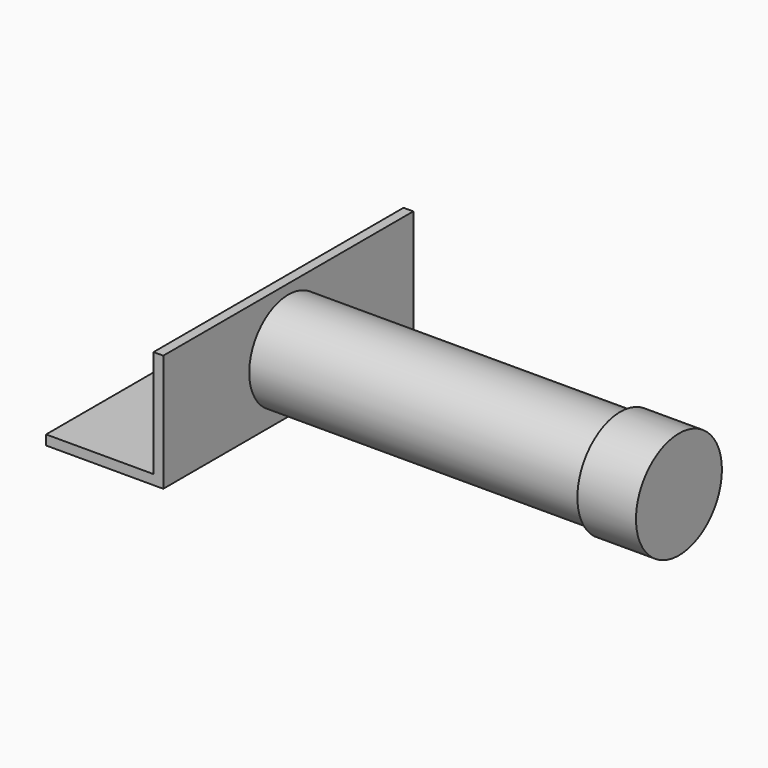
from build123d import *

# Parameters (mm, degrees)
F1_DEPTH = 203.2
F2_R     = 31.75
F2_R_2   = 28.575
F3_DEPTH = 254
F4_R     = 28.575
F5_DEPTH = 6.35
F6_R     = 34.925
F7_DEPTH = 38.1


with BuildPart() as f1:
    # F0 (on Front) → F1 (new body)
    with BuildSketch(Plane.XZ):
        Polygon((-76.2, 6.35), (-76.2, 0), (0, 0), (0, 76.2), (-6.35, 76.2), (-6.35, 6.35), align=None)
    extrude(amount=F1_DEPTH)

    # F2 (on face) → F3 (join)
    with BuildSketch(Plane.YZ):
        with Locations((-101.6, 38.1)):
            Circle(F2_R)
        with Locations((-101.6, 38.1)):
            Circle(F2_R_2, mode=Mode.SUBTRACT)
    extrude(amount=F3_DEPTH)

    # F4 (on face) → F5 (cut, through all)
    with BuildSketch(Plane(origin=(-6.35, 0, 0), x_dir=(0, -1, 0), z_dir=(-1, 0, 0))):
        with Locations((101.6, 38.1)):
            Circle(F4_R)
    extrude(amount=-F5_DEPTH, mode=Mode.SUBTRACT)

    # F6 (on face) → F7 (join)
    with BuildSketch(Plane.YZ.offset(254)):
        with Locations((-101.6, 38.1)):
            Circle(F6_R)
    extrude(amount=-F7_DEPTH)


solid = f1.part
